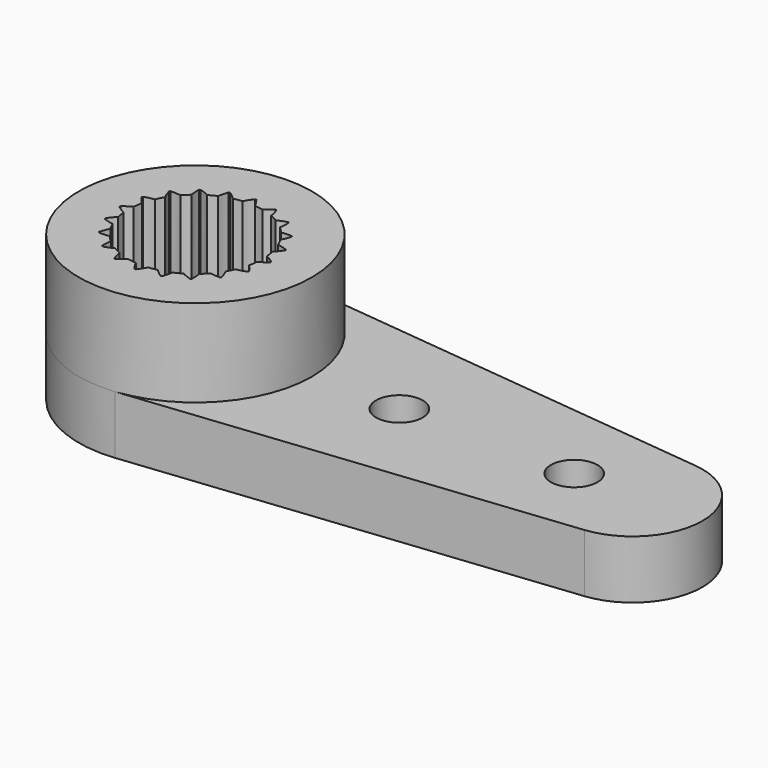
from build123d import *

# Parameters (mm, degrees)
PAD002_DEPTH  = 3
SKETCH_R      = 4
SKETCH_R_2    = 2.3
PAD001_DEPTH  = 3
PAD_DEPTH     = 2
SKETCH002_R   = 1.5
SKETCH002_R_2 = 0.8
POCKET_DEPTH  = 5


with BuildPart() as inner_gear:
    # InvoluteGear → Pad002 (new body)
    with BuildSketch(Plane(origin=(0, 0, 2), x_dir=(0.9876883406, 0.156434465, 0), z_dir=(0, 0, 1))):
        with BuildLine():
            add(Edge.make_bspline(
                [(2.5567942958, -0.3807566418), (2.4610961338, -0.2741651614), (2.3662709362, -0.1939082382), (2.2799463622, -0.1369005642), (2.2068326896, -0.0978436771)],
                knots=[0, 0, 0, 0, 0, 1, 1, 1, 1, 1], degree=4))
            ThreePointArc((2.2068326896, -0.0978436771), (2.2046644107, -2.192e-07), (2.2068320502, 0.0978432529))
            add(Edge.make_bspline(
                [(2.2068320502, 0.0978432529), (2.2799463622, 0.1369005642), (2.3662709362, 0.1939082382), (2.4610961338, 0.2741651614), (2.5567942958, 0.3807566418)],
                knots=[0, 0, 0, 0, 0, 1, 1, 1, 1, 1], degree=4))
            ThreePointArc((2.5567942958, 0.3807566418), (2.5563178748, 0.4048809759), (2.5493161489, 0.4279718032))
            add(Edge.make_bspline(
                [(2.5493161489, 0.4279718032), (2.4253632094, 0.4997739668), (2.3103783342, 0.5468002391), (2.2106624454, 0.5743419985), (2.1290579688, 0.5888939382)],
                knots=[0, 0, 0, 0, 0, 1, 1, 1, 1, 1], degree=4))
            ThreePointArc((2.1290579688, 0.5888939382), (2.0967605218, 0.6812785613), (2.0685867738, 0.7750030705))
            add(Edge.make_bspline(
                [(2.0685867738, 0.7750030705), (2.1260532436, 0.8347423458), (2.1905364523, 0.9156356261), (2.2559198211, 1.0212670934), (2.3139956028, 1.1522139738)],
                knots=[0, 0, 0, 0, 0, 1, 1, 1, 1, 1], degree=4))
            ThreePointArc((2.3139956028, 1.1522139738), (2.3060876703, 1.1750103568), (2.2922931752, 1.1948073863))
            add(Edge.make_bspline(
                [(2.2922931752, 1.1948073863), (2.1522188356, 1.2247917371), (2.0283298034, 1.2339840992), (1.9249834859, 1.2293639647), (1.84287622, 1.2179865117)],
                knots=[0, 0, 0, 0, 0, 1, 1, 1, 1, 1], degree=4))
            ThreePointArc((1.84287622, 1.2179865117), (1.783611104, 1.2958690495), (1.7278538113, 1.3763001878))
            add(Edge.make_bspline(
                [(1.7278538113, 1.3763001878), (1.7640472206, 1.4508737307), (1.800376998, 1.5477342193), (1.8299183585, 1.6684002868), (1.8446868977, 1.8108845741)],
                knots=[0, 0, 0, 0, 0, 1, 1, 1, 1, 1], degree=4))
            ThreePointArc((1.8446868977, 1.8108845741), (1.8301215372, 1.8301215372), (1.8108845741, 1.8446868977))
            add(Edge.make_bspline(
                [(1.8108845741, 1.8446868977), (1.6684002868, 1.8299183585), (1.5477342193, 1.800376998), (1.4508737307, 1.7640472206), (1.3763009068, 1.7278540792)],
                knots=[0, 0, 0, 0, 0, 1, 1, 1, 1, 1], degree=4))
            ThreePointArc((1.3763009068, 1.7278540792), (1.2958694042, 1.7836108463), (1.217986479, 1.8428754534))
            add(Edge.make_bspline(
                [(1.217986479, 1.8428754534), (1.2293639647, 1.9249834859), (1.2339840992, 2.0283298034), (1.2247917371, 2.1522188356), (1.1948073863, 2.2922931752)],
                knots=[0, 0, 0, 0, 0, 1, 1, 1, 1, 1], degree=4))
            ThreePointArc((1.1948073863, 2.2922931752), (1.1750103568, 2.3060876703), (1.1522139738, 2.3139956028))
            add(Edge.make_bspline(
                [(1.1522139738, 2.3139956028), (1.0212670934, 2.2559198211), (0.9156356261, 2.1905364523), (0.8347423458, 2.1260532436), (0.7750036715, 2.0685872508)],
                knots=[0, 0, 0, 0, 0, 1, 1, 1, 1, 1], degree=4))
            ThreePointArc((0.7750036715, 2.0685872508), (0.6812789783, 2.0967603863), (0.588894144, 2.1290572297))
            add(Edge.make_bspline(
                [(0.588894144, 2.1290572297), (0.5743419985, 2.2106624454), (0.5468002391, 2.3103783342), (0.4997739668, 2.4253632094), (0.4279718032, 2.5493161489)],
                knots=[0, 0, 0, 0, 0, 1, 1, 1, 1, 1], degree=4))
            ThreePointArc((0.4279718032, 2.5493161489), (0.4048809759, 2.5563178748), (0.3807566418, 2.5567942958))
            add(Edge.make_bspline(
                [(0.3807566418, 2.5567942958), (0.2741651614, 2.4610961338), (0.1939082382, 2.3662709362), (0.1369005642, 2.2799463622), (0.0978436771, 2.2068326896)],
                knots=[0, 0, 0, 0, 0, 1, 1, 1, 1, 1], degree=4))
            ThreePointArc((0.0978436771, 2.2068326896), (2.192e-07, 2.2046644107), (-0.0978432529, 2.2068320502))
            add(Edge.make_bspline(
                [(-0.0978432529, 2.2068320502), (-0.1369005642, 2.2799463622), (-0.1939082382, 2.3662709362), (-0.2741651614, 2.4610961338), (-0.3807566418, 2.5567942958)],
                knots=[0, 0, 0, 0, 0, 1, 1, 1, 1, 1], degree=4))
            ThreePointArc((-0.3807566418, 2.5567942958), (-0.4048809759, 2.5563178748), (-0.4279718032, 2.5493161489))
            add(Edge.make_bspline(
                [(-0.4279718032, 2.5493161489), (-0.4997739668, 2.4253632094), (-0.5468002391, 2.3103783342), (-0.5743419985, 2.2106624454), (-0.5888939382, 2.1290579688)],
                knots=[0, 0, 0, 0, 0, 1, 1, 1, 1, 1], degree=4))
            ThreePointArc((-0.5888939382, 2.1290579688), (-0.6812785613, 2.0967605218), (-0.7750030705, 2.0685867738))
            add(Edge.make_bspline(
                [(-0.7750030705, 2.0685867738), (-0.8347423458, 2.1260532436), (-0.9156356261, 2.1905364523), (-1.0212670934, 2.2559198211), (-1.1522139738, 2.3139956028)],
                knots=[0, 0, 0, 0, 0, 1, 1, 1, 1, 1], degree=4))
            ThreePointArc((-1.1522139738, 2.3139956028), (-1.1750103568, 2.3060876703), (-1.1948073863, 2.2922931752))
            add(Edge.make_bspline(
                [(-1.1948073863, 2.2922931752), (-1.2247917371, 2.1522188356), (-1.2339840992, 2.0283298034), (-1.2293639647, 1.9249834859), (-1.2179865117, 1.84287622)],
                knots=[0, 0, 0, 0, 0, 1, 1, 1, 1, 1], degree=4))
            ThreePointArc((-1.2179865117, 1.84287622), (-1.2958690495, 1.783611104), (-1.3763001878, 1.7278538113))
            add(Edge.make_bspline(
                [(-1.3763001878, 1.7278538113), (-1.4508737307, 1.7640472206), (-1.5477342193, 1.800376998), (-1.6684002868, 1.8299183585), (-1.8108845741, 1.8446868977)],
                knots=[0, 0, 0, 0, 0, 1, 1, 1, 1, 1], degree=4))
            ThreePointArc((-1.8108845741, 1.8446868977), (-1.8301215372, 1.8301215372), (-1.8446868977, 1.8108845741))
            add(Edge.make_bspline(
                [(-1.8446868977, 1.8108845741), (-1.8299183585, 1.6684002868), (-1.800376998, 1.5477342193), (-1.7640472206, 1.4508737307), (-1.7278540792, 1.3763009068)],
                knots=[0, 0, 0, 0, 0, 1, 1, 1, 1, 1], degree=4))
            ThreePointArc((-1.7278540792, 1.3763009068), (-1.7836108463, 1.2958694042), (-1.8428754534, 1.217986479))
            add(Edge.make_bspline(
                [(-1.8428754534, 1.217986479), (-1.9249834859, 1.2293639647), (-2.0283298034, 1.2339840992), (-2.1522188356, 1.2247917371), (-2.2922931752, 1.1948073863)],
                knots=[0, 0, 0, 0, 0, 1, 1, 1, 1, 1], degree=4))
            ThreePointArc((-2.2922931752, 1.1948073863), (-2.3060876703, 1.1750103568), (-2.3139956028, 1.1522139738))
            add(Edge.make_bspline(
                [(-2.3139956028, 1.1522139738), (-2.2559198211, 1.0212670934), (-2.1905364523, 0.9156356261), (-2.1260532436, 0.8347423458), (-2.0685872508, 0.7750036715)],
                knots=[0, 0, 0, 0, 0, 1, 1, 1, 1, 1], degree=4))
            ThreePointArc((-2.0685872508, 0.7750036715), (-2.0967603863, 0.6812789783), (-2.1290572297, 0.588894144))
            add(Edge.make_bspline(
                [(-2.1290572297, 0.588894144), (-2.2106624454, 0.5743419985), (-2.3103783342, 0.5468002391), (-2.4253632094, 0.4997739668), (-2.5493161489, 0.4279718032)],
                knots=[0, 0, 0, 0, 0, 1, 1, 1, 1, 1], degree=4))
            ThreePointArc((-2.5493161489, 0.4279718032), (-2.5563178748, 0.4048809759), (-2.5567942958, 0.3807566418))
            add(Edge.make_bspline(
                [(-2.5567942958, 0.3807566418), (-2.4610961338, 0.2741651614), (-2.3662709362, 0.1939082382), (-2.2799463622, 0.1369005642), (-2.2068326896, 0.0978436771)],
                knots=[0, 0, 0, 0, 0, 1, 1, 1, 1, 1], degree=4))
            ThreePointArc((-2.2068326896, 0.0978436771), (-2.2046644107, 2.192e-07), (-2.2068320502, -0.0978432529))
            add(Edge.make_bspline(
                [(-2.2068320502, -0.0978432529), (-2.2799463622, -0.1369005642), (-2.3662709362, -0.1939082382), (-2.4610961338, -0.2741651614), (-2.5567942958, -0.3807566418)],
                knots=[0, 0, 0, 0, 0, 1, 1, 1, 1, 1], degree=4))
            ThreePointArc((-2.5567942958, -0.3807566418), (-2.5563178748, -0.4048809759), (-2.5493161489, -0.4279718032))
            add(Edge.make_bspline(
                [(-2.5493161489, -0.4279718032), (-2.4253632094, -0.4997739668), (-2.3103783342, -0.5468002391), (-2.2106624454, -0.5743419985), (-2.1290579688, -0.5888939382)],
                knots=[0, 0, 0, 0, 0, 1, 1, 1, 1, 1], degree=4))
            ThreePointArc((-2.1290579688, -0.5888939382), (-2.0967605218, -0.6812785613), (-2.0685867738, -0.7750030705))
            add(Edge.make_bspline(
                [(-2.0685867738, -0.7750030705), (-2.1260532436, -0.8347423458), (-2.1905364523, -0.9156356261), (-2.2559198211, -1.0212670934), (-2.3139956028, -1.1522139738)],
                knots=[0, 0, 0, 0, 0, 1, 1, 1, 1, 1], degree=4))
            ThreePointArc((-2.3139956028, -1.1522139738), (-2.3060876703, -1.1750103568), (-2.2922931752, -1.1948073863))
            add(Edge.make_bspline(
                [(-2.2922931752, -1.1948073863), (-2.1522188356, -1.2247917371), (-2.0283298034, -1.2339840992), (-1.9249834859, -1.2293639647), (-1.84287622, -1.2179865117)],
                knots=[0, 0, 0, 0, 0, 1, 1, 1, 1, 1], degree=4))
            ThreePointArc((-1.84287622, -1.2179865117), (-1.783611104, -1.2958690495), (-1.7278538113, -1.3763001878))
            add(Edge.make_bspline(
                [(-1.7278538113, -1.3763001878), (-1.7640472206, -1.4508737307), (-1.800376998, -1.5477342193), (-1.8299183585, -1.6684002868), (-1.8446868977, -1.8108845741)],
                knots=[0, 0, 0, 0, 0, 1, 1, 1, 1, 1], degree=4))
            ThreePointArc((-1.8446868977, -1.8108845741), (-1.8301215372, -1.8301215372), (-1.8108845741, -1.8446868977))
            add(Edge.make_bspline(
                [(-1.8108845741, -1.8446868977), (-1.6684002868, -1.8299183585), (-1.5477342193, -1.800376998), (-1.4508737307, -1.7640472206), (-1.3763009068, -1.7278540792)],
                knots=[0, 0, 0, 0, 0, 1, 1, 1, 1, 1], degree=4))
            ThreePointArc((-1.3763009068, -1.7278540792), (-1.2958694042, -1.7836108463), (-1.217986479, -1.8428754534))
            add(Edge.make_bspline(
                [(-1.217986479, -1.8428754534), (-1.2293639647, -1.9249834859), (-1.2339840992, -2.0283298034), (-1.2247917371, -2.1522188356), (-1.1948073863, -2.2922931752)],
                knots=[0, 0, 0, 0, 0, 1, 1, 1, 1, 1], degree=4))
            ThreePointArc((-1.1948073863, -2.2922931752), (-1.1750103568, -2.3060876703), (-1.1522139738, -2.3139956028))
            add(Edge.make_bspline(
                [(-1.1522139738, -2.3139956028), (-1.0212670934, -2.2559198211), (-0.9156356261, -2.1905364523), (-0.8347423458, -2.1260532436), (-0.7750036715, -2.0685872508)],
                knots=[0, 0, 0, 0, 0, 1, 1, 1, 1, 1], degree=4))
            ThreePointArc((-0.7750036715, -2.0685872508), (-0.6812789783, -2.0967603863), (-0.588894144, -2.1290572297))
            add(Edge.make_bspline(
                [(-0.588894144, -2.1290572297), (-0.5743419985, -2.2106624454), (-0.5468002391, -2.3103783342), (-0.4997739668, -2.4253632094), (-0.4279718032, -2.5493161489)],
                knots=[0, 0, 0, 0, 0, 1, 1, 1, 1, 1], degree=4))
            ThreePointArc((-0.4279718032, -2.5493161489), (-0.4048809759, -2.5563178748), (-0.3807566418, -2.5567942958))
            add(Edge.make_bspline(
                [(-0.3807566418, -2.5567942958), (-0.2741651614, -2.4610961338), (-0.1939082382, -2.3662709362), (-0.1369005642, -2.2799463622), (-0.0978436771, -2.2068326896)],
                knots=[0, 0, 0, 0, 0, 1, 1, 1, 1, 1], degree=4))
            ThreePointArc((-0.0978436771, -2.2068326896), (-2.192e-07, -2.2046644107), (0.0978432529, -2.2068320502))
            add(Edge.make_bspline(
                [(0.0978432529, -2.2068320502), (0.1369005642, -2.2799463622), (0.1939082382, -2.3662709362), (0.2741651614, -2.4610961338), (0.3807566418, -2.5567942958)],
                knots=[0, 0, 0, 0, 0, 1, 1, 1, 1, 1], degree=4))
            ThreePointArc((0.3807566418, -2.5567942958), (0.4048809759, -2.5563178748), (0.4279718032, -2.5493161489))
            add(Edge.make_bspline(
                [(0.4279718032, -2.5493161489), (0.4997739668, -2.4253632094), (0.5468002391, -2.3103783342), (0.5743419985, -2.2106624454), (0.5888939382, -2.1290579688)],
                knots=[0, 0, 0, 0, 0, 1, 1, 1, 1, 1], degree=4))
            ThreePointArc((0.5888939382, -2.1290579688), (0.6812785613, -2.0967605218), (0.7750030705, -2.0685867738))
            add(Edge.make_bspline(
                [(0.7750030705, -2.0685867738), (0.8347423458, -2.1260532436), (0.9156356261, -2.1905364523), (1.0212670934, -2.2559198211), (1.1522139738, -2.3139956028)],
                knots=[0, 0, 0, 0, 0, 1, 1, 1, 1, 1], degree=4))
            ThreePointArc((1.1522139738, -2.3139956028), (1.1750103568, -2.3060876703), (1.1948073863, -2.2922931752))
            add(Edge.make_bspline(
                [(1.1948073863, -2.2922931752), (1.2247917371, -2.1522188356), (1.2339840992, -2.0283298034), (1.2293639647, -1.9249834859), (1.2179865117, -1.84287622)],
                knots=[0, 0, 0, 0, 0, 1, 1, 1, 1, 1], degree=4))
            ThreePointArc((1.2179865117, -1.84287622), (1.2958690495, -1.783611104), (1.3763001878, -1.7278538113))
            add(Edge.make_bspline(
                [(1.3763001878, -1.7278538113), (1.4508737307, -1.7640472206), (1.5477342193, -1.800376998), (1.6684002868, -1.8299183585), (1.8108845741, -1.8446868977)],
                knots=[0, 0, 0, 0, 0, 1, 1, 1, 1, 1], degree=4))
            ThreePointArc((1.8108845741, -1.8446868977), (1.8301215372, -1.8301215372), (1.8446868977, -1.8108845741))
            add(Edge.make_bspline(
                [(1.8446868977, -1.8108845741), (1.8299183585, -1.6684002868), (1.800376998, -1.5477342193), (1.7640472206, -1.4508737307), (1.7278540792, -1.3763009068)],
                knots=[0, 0, 0, 0, 0, 1, 1, 1, 1, 1], degree=4))
            ThreePointArc((1.7278540792, -1.3763009068), (1.7836108463, -1.2958694042), (1.8428754534, -1.217986479))
            add(Edge.make_bspline(
                [(1.8428754534, -1.217986479), (1.9249834859, -1.2293639647), (2.0283298034, -1.2339840992), (2.1522188356, -1.2247917371), (2.2922931752, -1.1948073863)],
                knots=[0, 0, 0, 0, 0, 1, 1, 1, 1, 1], degree=4))
            ThreePointArc((2.2922931752, -1.1948073863), (2.3060876703, -1.1750103568), (2.3139956028, -1.1522139738))
            add(Edge.make_bspline(
                [(2.3139956028, -1.1522139738), (2.2559198211, -1.0212670934), (2.1905364523, -0.9156356261), (2.1260532436, -0.8347423458), (2.0685872508, -0.7750036715)],
                knots=[0, 0, 0, 0, 0, 1, 1, 1, 1, 1], degree=4))
            ThreePointArc((2.0685872508, -0.7750036715), (2.0967603863, -0.6812789783), (2.1290572297, -0.588894144))
            add(Edge.make_bspline(
                [(2.1290572297, -0.588894144), (2.2106624454, -0.5743419985), (2.3103783342, -0.5468002391), (2.4253632094, -0.4997739668), (2.5493161489, -0.4279718032)],
                knots=[0, 0, 0, 0, 0, 1, 1, 1, 1, 1], degree=4))
            ThreePointArc((2.5493161489, -0.4279718032), (2.5563178748, -0.4048809759), (2.5567942958, -0.3807566418))
        make_face()
    extrude(amount=PAD002_DEPTH)


with BuildPart() as ring_holder_w_gear:
    # Sketch → Pad001 (new body)
    with BuildSketch(Plane.XY.offset(2)):
        Circle(SKETCH_R)
        Circle(SKETCH_R_2, mode=Mode.SUBTRACT)
    extrude(amount=PAD001_DEPTH)

    # Cut: cut Inner Gear
    add(inner_gear.part, mode=Mode.SUBTRACT)


with BuildPart() as fusion:
    # Sketch001 → Pad (new body)
    with BuildSketch(Plane.XY):
        with BuildLine():
            Line((0.4266666667, 3.9771793467), (15.256, 2.386307608))
            ThreePointArc((15.256, -2.386307608), (17.4, 0), (15.256, 2.386307608))
            Line((0.4266666667, -3.9771793467), (15.256, -2.386307608))
            ThreePointArc((0.4266666667, 3.9771793467), (-4, 0), (0.4266666667, -3.9771793467))
        make_face()
    extrude(amount=PAD_DEPTH)

    # Sketch002 → Pocket (cut)
    with BuildSketch(Plane.XY.offset(2)):
        Circle(SKETCH002_R)
        with Locations((7, 0)):
            Circle(SKETCH002_R_2)
        with Locations((13, 0)):
            Circle(SKETCH002_R_2)
    extrude(amount=-POCKET_DEPTH, mode=Mode.SUBTRACT)

    # Fusion: union Ring Holder w Gear
    add(ring_holder_w_gear.part)


solid = fusion.part
